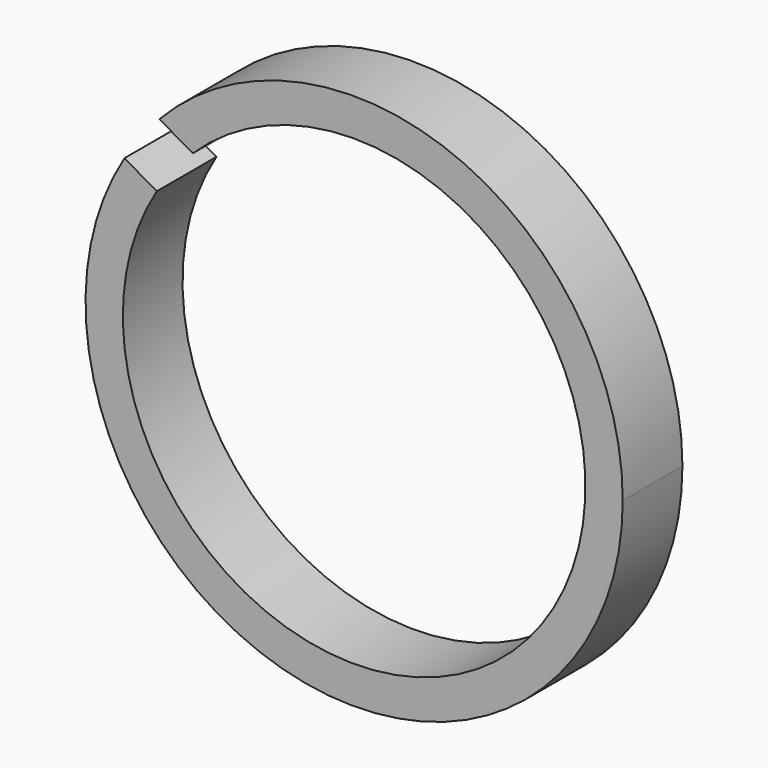
from build123d import *

# Parameters (mm, degrees)
F0_R     = 9
F0_R_2   = 7.75
F1_DEPTH = 2.5
F3_DEPTH = 25
F4_W     = 1.797143
F4_H     = 0.470712
F5_DEPTH = 25
F6_W     = 1.035781
F6_H     = 1.391272
F7_DEPTH = 25


with BuildPart() as f1:
    # F0 (on Front) → F1 (new body)
    with BuildSketch(Plane.XZ):
        Circle(F0_R)
        Circle(F0_R_2, mode=Mode.SUBTRACT)
    extrude(amount=F1_DEPTH)

    # F2 (on face) → F3 (cut)
    with BuildSketch(Plane.XZ.offset(2.5)):
        Polygon((-6.525024, 6.198715), (-7.695748, 4.666418), (-6.611456, 4.043655), (-5.404168, 5.55495), align=None)
    extrude(amount=-F3_DEPTH, mode=Mode.SUBTRACT)

    # F4 (on face) → F5 (cut)
    with BuildSketch(Plane.XZ.offset(2.5)):
        with Locations((-7.423595, 5.963359)):
            Rectangle(F4_W, F4_H)
    extrude(amount=-F5_DEPTH, mode=Mode.SUBTRACT)

    # F6 (on face) → F7 (cut)
    with BuildSketch(Plane.XZ.offset(2.5)):
        with Locations((-7.177858, 5.362054)):
            Rectangle(F6_W, F6_H)
    extrude(amount=-F7_DEPTH, mode=Mode.SUBTRACT)


solid = f1.part
